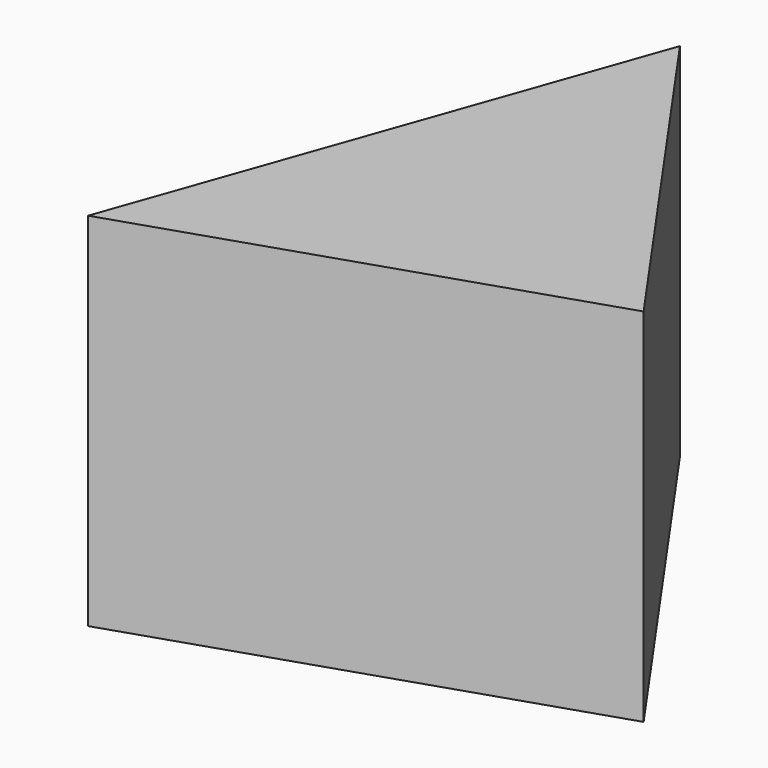
from build123d import *

# Parameters (mm, degrees)
F1_DEPTH = 25.4
F3_DEPTH = 25.4


with BuildPart() as f1:
    # F0 (on Top) → F1 (new body)
    with BuildSketch(Plane.XY):
        Polygon((-6.04801, 37.152812), (-31.601202, -34.93065), (30.259268, -14.617668), align=None)
    extrude(amount=F1_DEPTH)

    # F2 (on face) → F3 (join)
    with BuildSketch(Plane.XY.offset(25.4)):
        Polygon((-6.04801, 37.152812), (-31.601202, -34.93065), (30.259268, -14.617668), align=None)
    extrude(amount=F3_DEPTH)


solid = f1.part
